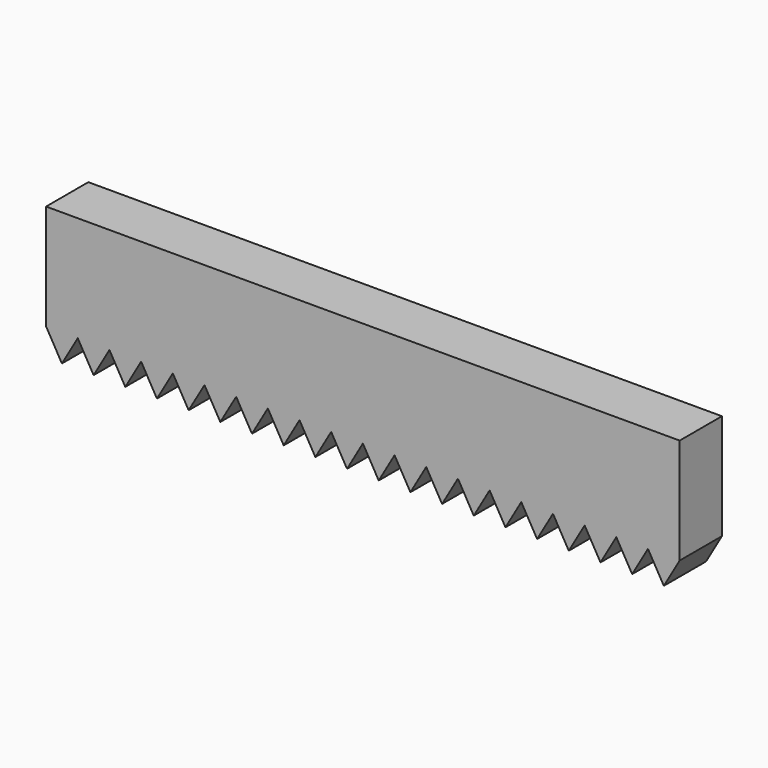
from build123d import *

# Parameters (mm, degrees)
F1_DEPTH = 12.7


with BuildPart() as f1:
    # F0 (on Front) → F1 (new body)
    with BuildSketch(Plane.XZ):
        Polygon((76.2, -12.7), (76.2, 12.7), (-76.2, 12.7), (-76.2, -12.7), (-68.58, -12.7), (-60.96, -12.7), (-53.34, -12.7), (-45.72, -12.7), (-38.1, -12.7), (-30.48, -12.7), (-22.86, -12.7), (-15.24, -12.7), (-7.62, -12.7), (0, -12.7), (7.62, -12.7), (15.24, -12.7), (22.86, -12.7), (30.48, -12.7), (38.1, -12.7), (45.72, -12.7), (53.34, -12.7), (60.96, -12.7), (68.58, -12.7), align=None)
        Polygon((72.39, -19.299114), (76.2, -12.7), (68.58, -12.7), align=None)
        Polygon((-68.58, -12.7), (-76.2, -12.7), (-72.39, -19.299114), align=None)
        Polygon((64.77, -19.299114), (68.58, -12.7), (60.96, -12.7), align=None)
        Polygon((-60.96, -12.7), (-68.58, -12.7), (-64.77, -19.299114), align=None)
        Polygon((57.15, -19.299114), (60.96, -12.7), (53.34, -12.7), align=None)
        Polygon((-53.34, -12.7), (-60.96, -12.7), (-57.15, -19.299114), align=None)
        Polygon((49.53, -19.299114), (53.34, -12.7), (45.72, -12.7), align=None)
        Polygon((-45.72, -12.7), (-53.34, -12.7), (-49.53, -19.299114), align=None)
        Polygon((41.91, -19.299114), (45.72, -12.7), (38.1, -12.7), align=None)
        Polygon((-38.1, -12.7), (-45.72, -12.7), (-41.91, -19.299114), align=None)
        Polygon((34.29, -19.299114), (38.1, -12.7), (30.48, -12.7), align=None)
        Polygon((-30.48, -12.7), (-38.1, -12.7), (-34.29, -19.299114), align=None)
        Polygon((26.67, -19.299114), (30.48, -12.7), (22.86, -12.7), align=None)
        Polygon((-22.86, -12.7), (-30.48, -12.7), (-26.67, -19.299114), align=None)
        Polygon((19.05, -19.299114), (22.86, -12.7), (15.24, -12.7), align=None)
        Polygon((-15.24, -12.7), (-22.86, -12.7), (-19.05, -19.299114), align=None)
        Polygon((11.43, -19.299114), (15.24, -12.7), (7.62, -12.7), align=None)
        Polygon((-7.62, -12.7), (-15.24, -12.7), (-11.43, -19.299114), align=None)
        Polygon((3.81, -19.299114), (7.62, -12.7), (0, -12.7), align=None)
        Polygon((0, -12.7), (-7.62, -12.7), (-3.81, -19.299114), align=None)
    extrude(amount=F1_DEPTH)


solid = f1.part
